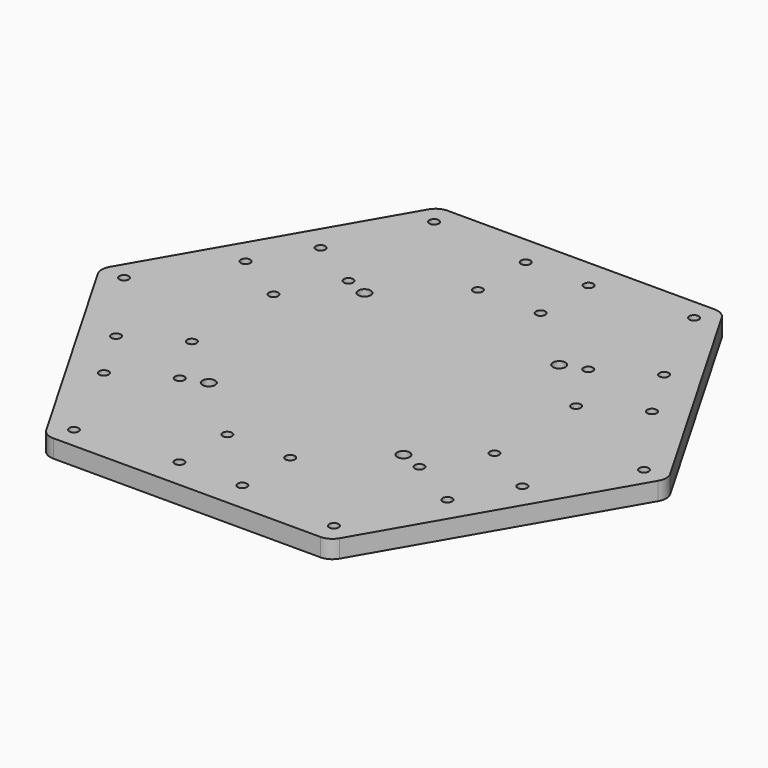
from build123d import *

# Parameters (mm, degrees)
F0_R     = 1.575
F0_R_2   = 2.1
F1_DEPTH = 6


with BuildPart() as f1:
    # F0 (on Top) → F1 (new body)
    with BuildSketch(Plane.XY):
        with BuildLine():
            Line((-93.556624, -2.5), (-48.943376, -79.772413))
            ThreePointArc((-48.943376, -79.772413), (-47.113249, -81.60254), (-44.613249, -82.272413))
            Line((-44.613249, -82.272413), (44.613249, -82.272413))
            ThreePointArc((44.613249, -82.272413), (47.113249, -81.60254), (48.943376, -79.772413))
            Line((48.943376, -79.772413), (93.556624, -2.5))
            ThreePointArc((93.556624, -2.5), (94.226497, 0), (93.556624, 2.5))
            Line((93.556624, 2.5), (48.943376, 79.772413))
            ThreePointArc((48.943376, 79.772413), (47.113249, 81.60254), (44.613249, 82.272413))
            Line((44.613249, 82.272413), (-44.613249, 82.272413))
            ThreePointArc((-44.613249, 82.272413), (-47.113249, 81.60254), (-48.943376, 79.772413))
            Line((-48.943376, 79.772413), (-93.556624, 2.5))
            ThreePointArc((-93.556624, 2.5), (-94.226497, 0), (-93.556624, -2.5))
        make_face()
        with Locations((-57.339746, -45.229473)):
            Circle(F0_R, mode=Mode.SUBTRACT)
        with Locations((-43.4, -75.171005)):
            Circle(F0_R, mode=Mode.SUBTRACT)
        with Locations((-10.5, -72.272413)):
            Circle(F0_R, mode=Mode.SUBTRACT)
        with Locations((-10.5, -52.272413)):
            Circle(F0_R, mode=Mode.SUBTRACT)
        with Locations((-67.839746, -27.04294)):
            Circle(F0_R, mode=Mode.SUBTRACT)
        with Locations((-86.8, 0)):
            Circle(F0_R, mode=Mode.SUBTRACT)
        with Locations((-50.519238, -17.04294)):
            Circle(F0_R, mode=Mode.SUBTRACT)
        with Locations((-40.019238, -35.229473)):
            Circle(F0_R, mode=Mode.SUBTRACT)
        with Locations((-32.5, -32.5)):
            Circle(F0_R_2, mode=Mode.SUBTRACT)
        with Locations((10.5, -72.272413)):
            Circle(F0_R, mode=Mode.SUBTRACT)
        with Locations((43.4, -75.171005)):
            Circle(F0_R, mode=Mode.SUBTRACT)
        with Locations((10.5, -52.272413)):
            Circle(F0_R, mode=Mode.SUBTRACT)
        with Locations((57.339746, -45.229473)):
            Circle(F0_R, mode=Mode.SUBTRACT)
        with Locations((32.5, -32.5)):
            Circle(F0_R_2, mode=Mode.SUBTRACT)
        with Locations((40.019238, -35.229473)):
            Circle(F0_R, mode=Mode.SUBTRACT)
        with Locations((67.839746, -27.04294)):
            Circle(F0_R, mode=Mode.SUBTRACT)
        with Locations((50.519238, -17.04294)):
            Circle(F0_R, mode=Mode.SUBTRACT)
        with Locations((86.8, 0)):
            Circle(F0_R, mode=Mode.SUBTRACT)
        with Locations((-50.519238, 17.04294)):
            Circle(F0_R, mode=Mode.SUBTRACT)
        with Locations((-67.839746, 27.04294)):
            Circle(F0_R, mode=Mode.SUBTRACT)
        with Locations((-40.019238, 35.229473)):
            Circle(F0_R, mode=Mode.SUBTRACT)
        with Locations((-32.5, 32.5)):
            Circle(F0_R_2, mode=Mode.SUBTRACT)
        with Locations((-57.339746, 45.229473)):
            Circle(F0_R, mode=Mode.SUBTRACT)
        with Locations((-10.5, 52.272413)):
            Circle(F0_R, mode=Mode.SUBTRACT)
        with Locations((-43.4, 75.171005)):
            Circle(F0_R, mode=Mode.SUBTRACT)
        with Locations((-10.5, 72.272413)):
            Circle(F0_R, mode=Mode.SUBTRACT)
        with Locations((32.5, 32.5)):
            Circle(F0_R_2, mode=Mode.SUBTRACT)
        with Locations((40.019238, 35.229473)):
            Circle(F0_R, mode=Mode.SUBTRACT)
        with Locations((50.519238, 17.04294)):
            Circle(F0_R, mode=Mode.SUBTRACT)
        with Locations((67.839746, 27.04294)):
            Circle(F0_R, mode=Mode.SUBTRACT)
        with Locations((10.5, 52.272413)):
            Circle(F0_R, mode=Mode.SUBTRACT)
        with Locations((10.5, 72.272413)):
            Circle(F0_R, mode=Mode.SUBTRACT)
        with Locations((43.4, 75.171005)):
            Circle(F0_R, mode=Mode.SUBTRACT)
        with Locations((57.339746, 45.229473)):
            Circle(F0_R, mode=Mode.SUBTRACT)
    extrude(amount=F1_DEPTH)


solid = f1.part
